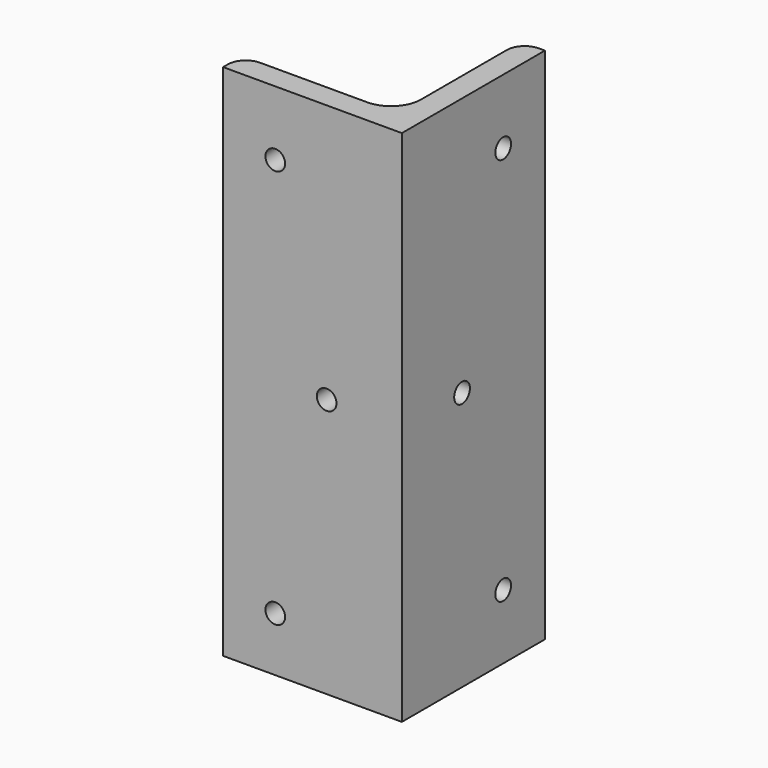
from build123d import *

# Parameters (mm, degrees)
F1_DEPTH   = 87
F4_D       = 3.3
F4_ON_F3_D = 3.3
F5_R       = 5


with BuildPart() as f1:
    # F0 (on Top) → F1 (new body)
    with BuildSketch(Plane.XY):
        with BuildLine():
            Line((26, 23), (26, 0))
            Line((26, 0), (30, 0))
            Line((30, 0), (30, 26))
            Line((30, 26), (29, 26))
            ThreePointArc((29, 26), (26.8786796564, 25.1213203436), (26, 23))
        make_face()
        with BuildLine():
            Line((26, 0), (3, 0))
            ThreePointArc((3, 0), (0.8786796564, -0.8786796564), (0, -3))
            Line((0, -3), (0, -4))
            Line((0, -4), (30, -4))
            Line((30, -4), (30, 0))
            Line((30, 0), (26, 0))
        make_face()
    extrude(amount=F1_DEPTH)

    # F4 (through all)
    with Locations(Plane(origin=(26, 0, 0), x_dir=(0, -1, 0), z_dir=(-1, 0, 0))):
        with Locations((-17.25, 10.875), (-17.25, 76.125), (-8.625, 43.5)):
            Hole(F4_D / 2)

    # F4 on F3 (through all)
    with Locations(Plane(origin=(0, 0, 0), x_dir=(-1, 0, 0), z_dir=(0, 1, 0))):
        with Locations((-8.75, 9.1315675527), (-17.375, 43.5), (-8.75, 76.125)):
            Hole(F4_ON_F3_D / 2)

    # F5
    f5_edges = [f1.edges().sort_by_distance(p)[0] for p in [
        (26, 0, 43.5),
    ]]
    fillet(f5_edges, radius=F5_R)


solid = f1.part
